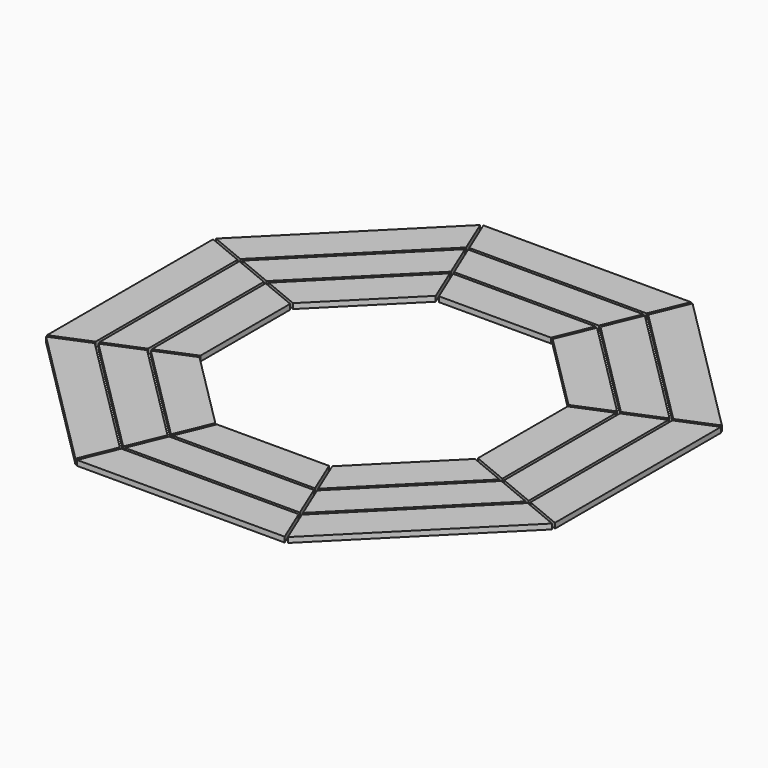
from build123d import *

# Parameters (mm, degrees)
F1_DEPTH = 12.7
F3_DEPTH = 12.7
F5_DEPTH = 12.7


with BuildPart() as f1:
    # F0 (on Top) → F1 (new body)
    with BuildSketch(Plane.XY):
        Polygon((-136.525, 337.897181), (136.525, 337.897181), (173.348586, 426.797181), (-173.348586, 426.797181), align=None)
        Polygon((-179.215221, 424.367142), (-424.367142, 179.215221), (-335.467142, 142.391635), (-142.391635, 335.467142), align=None)
        Polygon((-426.797181, 173.348586), (-426.797181, -173.348586), (-337.897181, -136.525), (-337.897181, 136.525), align=None)
        Polygon((-424.367142, -179.215221), (-179.215221, -424.367142), (-142.391635, -335.467142), (-335.467142, -142.391635), align=None)
        Polygon((-173.348586, -426.797181), (173.348586, -426.797181), (136.525, -337.897181), (-136.525, -337.897181), align=None)
        Polygon((179.215221, -424.367142), (424.367142, -179.215221), (335.467142, -142.391635), (142.391635, -335.467142), align=None)
        Polygon((426.797181, -173.348586), (426.797181, 173.348586), (337.897181, 136.525), (337.897181, -136.525), align=None)
        Polygon((424.367142, 179.215221), (179.215221, 424.367142), (142.391635, 335.467142), (335.467142, 142.391635), align=None)
    extrude(amount=F1_DEPTH)


with BuildPart() as f3:
    # F2 (on Top) → F3 (new body)
    with BuildSketch(Plane.XY):
        Polygon((213.036086, 522.611282), (-213.036086, 522.611282), (-176.2125, 433.711282), (176.2125, 433.711282), align=None)
        Polygon((-520.181242, 218.902721), (-431.281242, 182.079135), (-182.079135, 431.281242), (-218.902721, 520.181242), align=None)
        Polygon((-522.611282, -213.036086), (-433.711282, -176.2125), (-433.711282, 176.2125), (-522.611282, 213.036086), align=None)
        Polygon((-218.902721, -520.181242), (-182.079135, -431.281242), (-431.281242, -182.079135), (-520.181242, -218.902721), align=None)
        Polygon((213.036086, -522.611282), (176.2125, -433.711282), (-176.2125, -433.711282), (-213.036086, -522.611282), align=None)
        Polygon((520.181242, -218.902721), (431.281242, -182.079135), (182.079135, -431.281242), (218.902721, -520.181242), align=None)
        Polygon((522.611282, 213.036086), (433.711282, 176.2125), (433.711282, -176.2125), (522.611282, -213.036086), align=None)
        Polygon((218.902721, 520.181242), (182.079135, 431.281242), (431.281242, 182.079135), (520.181242, 218.902721), align=None)
    extrude(amount=F3_DEPTH)


with BuildPart() as f5:
    # F4 (on Top) → F5 (new body)
    with BuildSketch(Plane.XY):
        Polygon((252.723586, 618.425383), (-252.723586, 618.425383), (-215.9, 529.525383), (215.9, 529.525383), align=None)
        Polygon((-615.995343, 258.590221), (-527.095343, 221.766635), (-221.766635, 527.095343), (-258.590221, 615.995343), align=None)
        Polygon((-618.425383, -252.723586), (-529.525383, -215.9), (-529.525383, 215.9), (-618.425383, 252.723586), align=None)
        Polygon((-258.590221, -615.995343), (-221.766635, -527.095343), (-527.095343, -221.766635), (-615.995343, -258.590221), align=None)
        Polygon((252.723586, -618.425383), (215.9, -529.525383), (-215.9, -529.525383), (-252.723586, -618.425383), align=None)
        Polygon((615.995343, -258.590221), (527.095343, -221.766635), (221.766635, -527.095343), (258.590221, -615.995343), align=None)
        Polygon((618.425383, 252.723586), (529.525383, 215.9), (529.525383, -215.9), (618.425383, -252.723586), align=None)
        Polygon((258.590221, 615.995343), (221.766635, 527.095343), (527.095343, 221.766635), (615.995343, 258.590221), align=None)
    extrude(amount=F5_DEPTH)


solid = Compound([f1.part, f3.part, f5.part])
